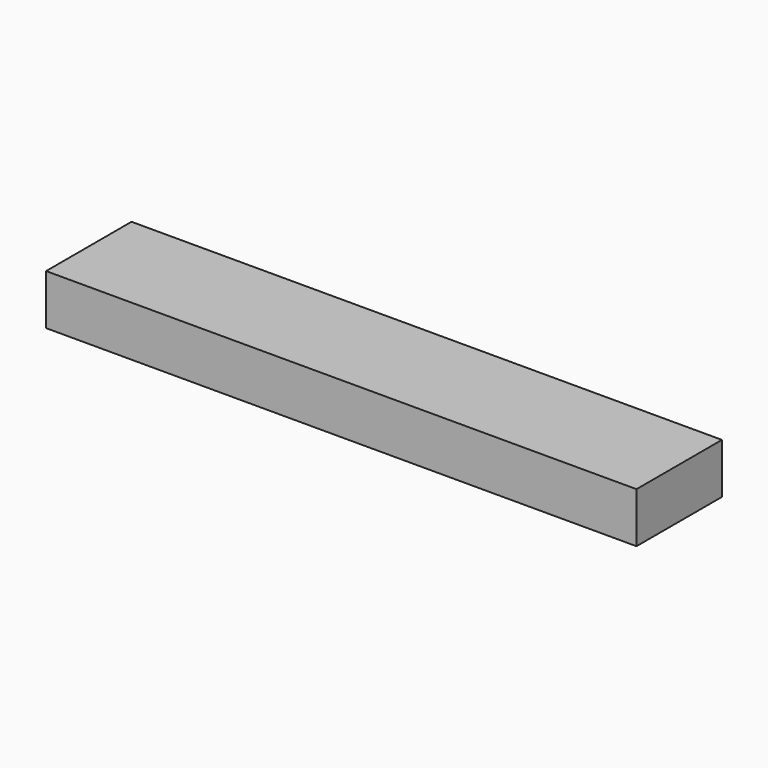
from build123d import *

# Parameters (mm, degrees)
BOX005_W     = 84
BOX005_H     = 11
BOX005_DEPTH = 5
BOX004_W     = 94
BOX004_H     = 17
BOX004_DEPTH = 8


with BuildPart() as obj1:
    # Box005 → Box005 (new body)
    with BuildSketch(Plane.XY.offset(-2)):
        with Locations((42, 5.5)):
            Rectangle(BOX005_W, BOX005_H)
    extrude(amount=BOX005_DEPTH)


with BuildPart() as slidingmodule:
    # Box004 → Box004 (new body)
    with BuildSketch(Plane(origin=(-5, -3, 0), x_dir=(1, 0, 0), z_dir=(0, 0, 1))):
        with Locations((47, 8.5)):
            Rectangle(BOX004_W, BOX004_H)
    extrude(amount=BOX004_DEPTH)

    # Cut002: cut obj1
    add(obj1.part, mode=Mode.SUBTRACT)


solid = slidingmodule.part
